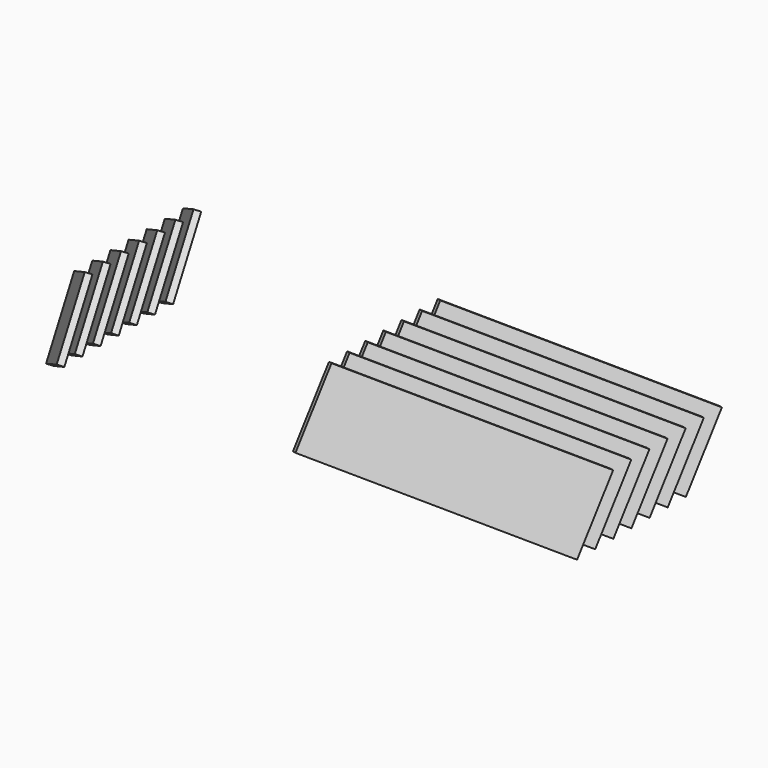
from build123d import *

# Parameters (mm, degrees)
BOX022_W               = 30
BOX022_H               = 2.5
BOX022_DEPTH           = 100
BOX022_ROLL_ANGLE      = 30.72405
BOX022_PITCH_ANGLE     = 57.751092
BOX022_PLACEMENT_ANGLE = -95.67779
BOX023_W               = 30
BOX023_H               = 2.5
BOX023_DEPTH           = 100
BOX023_ROLL_ANGLE      = 30.72405
BOX023_PITCH_ANGLE     = 57.751092
BOX023_PLACEMENT_ANGLE = -95.67779
BOX024_W               = 30
BOX024_H               = 2.5
BOX024_DEPTH           = 100
BOX024_ROLL_ANGLE      = 30.72405
BOX024_PITCH_ANGLE     = 57.751092
BOX024_PLACEMENT_ANGLE = -95.67779
BOX025_W               = 30
BOX025_H               = 2.5
BOX025_DEPTH           = 100
BOX025_ROLL_ANGLE      = 30.72405
BOX025_PITCH_ANGLE     = 57.751092
BOX025_PLACEMENT_ANGLE = -95.67779
BOX026_W               = 30
BOX026_H               = 2.5
BOX026_DEPTH           = 100
BOX026_ROLL_ANGLE      = 30.72405
BOX026_PITCH_ANGLE     = 57.751092
BOX026_PLACEMENT_ANGLE = -95.67779
BOX027_W               = 30
BOX027_H               = 2.5
BOX027_DEPTH           = 100
BOX027_ROLL_ANGLE      = 30.72405
BOX027_PITCH_ANGLE     = 57.751092
BOX027_PLACEMENT_ANGLE = -95.67779
BOX021_W               = 30
BOX021_H               = 2.5
BOX021_DEPTH           = 100
BOX021_ROLL_ANGLE      = 30.72405
BOX021_PITCH_ANGLE     = 57.751092
BOX021_PLACEMENT_ANGLE = -95.67779
BOX001_W               = 30
BOX001_H               = 2.5
BOX001_DEPTH           = 100
BOX001_ROLL_ANGLE      = 30.72405
BOX001_PITCH_ANGLE     = 57.751092
BOX001_PLACEMENT_ANGLE = -95.67779
BOX002_W               = 30
BOX002_H               = 2.5
BOX002_DEPTH           = 100
BOX002_ROLL_ANGLE      = 30.72405
BOX002_PITCH_ANGLE     = 57.751092
BOX002_PLACEMENT_ANGLE = -95.67779
BOX003_W               = 30
BOX003_H               = 2.5
BOX003_DEPTH           = 100
BOX003_ROLL_ANGLE      = 30.72405
BOX003_PITCH_ANGLE     = 57.751092
BOX003_PLACEMENT_ANGLE = -95.67779
BOX004_W               = 30
BOX004_H               = 2.5
BOX004_DEPTH           = 100
BOX004_ROLL_ANGLE      = 30.72405
BOX004_PITCH_ANGLE     = 57.751092
BOX004_PLACEMENT_ANGLE = -95.67779
BOX005_W               = 30
BOX005_H               = 2.5
BOX005_DEPTH           = 100
BOX005_ROLL_ANGLE      = 30.72405
BOX005_PITCH_ANGLE     = 57.751092
BOX005_PLACEMENT_ANGLE = -95.67779
BOX006_W               = 30
BOX006_H               = 2.5
BOX006_DEPTH           = 100
BOX006_ROLL_ANGLE      = 30.72405
BOX006_PITCH_ANGLE     = 57.751092
BOX006_PLACEMENT_ANGLE = -95.67779
BOX_W                  = 30
BOX_H                  = 2.5
BOX_DEPTH              = 100
BOX_ROLL_ANGLE         = 30.72405
BOX_PITCH_ANGLE        = 57.751092
BOX_PLACEMENT_ANGLE    = -95.67779


with BuildPart() as cube022:
    # Box022 → Box022 (new body)
    with BuildSketch(Plane.XY):
        with Locations((15, 1.25)):
            Rectangle(BOX022_W, BOX022_H)
    extrude(amount=BOX022_DEPTH)


with BuildPart() as cube022_1:
    # Box022 roll: moved
    add(cube022.part.rotate(Axis((0, 0, 0), (1, 0, 0)), BOX022_ROLL_ANGLE))


with BuildPart() as cube022_2:
    # Box022 pitch: moved
    add(cube022_1.part.rotate(Axis((0, 0, 0), (0, 1, 0)), BOX022_PITCH_ANGLE))


with BuildPart() as cube022_3:
    # Box022 placement: moved
    add(cube022_2.part.moved(Location((105, 186, 0))).rotate(Axis((105, 186, 0), (0, 0, 1)), BOX022_PLACEMENT_ANGLE))


with BuildPart() as cube023:
    # Box023 → Box023 (new body)
    with BuildSketch(Plane.XY):
        with Locations((15, 1.25)):
            Rectangle(BOX023_W, BOX023_H)
    extrude(amount=BOX023_DEPTH)


with BuildPart() as cube023_1:
    # Box023 roll: moved
    add(cube023.part.rotate(Axis((0, 0, 0), (1, 0, 0)), BOX023_ROLL_ANGLE))


with BuildPart() as cube023_2:
    # Box023 pitch: moved
    add(cube023_1.part.rotate(Axis((0, 0, 0), (0, 1, 0)), BOX023_PITCH_ANGLE))


with BuildPart() as cube023_3:
    # Box023 placement: moved
    add(cube023_2.part.moved(Location((105, 195, 0))).rotate(Axis((105, 195, 0), (0, 0, 1)), BOX023_PLACEMENT_ANGLE))


with BuildPart() as cube024:
    # Box024 → Box024 (new body)
    with BuildSketch(Plane.XY):
        with Locations((15, 1.25)):
            Rectangle(BOX024_W, BOX024_H)
    extrude(amount=BOX024_DEPTH)


with BuildPart() as cube024_1:
    # Box024 roll: moved
    add(cube024.part.rotate(Axis((0, 0, 0), (1, 0, 0)), BOX024_ROLL_ANGLE))


with BuildPart() as cube024_2:
    # Box024 pitch: moved
    add(cube024_1.part.rotate(Axis((0, 0, 0), (0, 1, 0)), BOX024_PITCH_ANGLE))


with BuildPart() as cube024_3:
    # Box024 placement: moved
    add(cube024_2.part.moved(Location((105, 204, 0))).rotate(Axis((105, 204, 0), (0, 0, 1)), BOX024_PLACEMENT_ANGLE))


with BuildPart() as cube025:
    # Box025 → Box025 (new body)
    with BuildSketch(Plane.XY):
        with Locations((15, 1.25)):
            Rectangle(BOX025_W, BOX025_H)
    extrude(amount=BOX025_DEPTH)


with BuildPart() as cube025_1:
    # Box025 roll: moved
    add(cube025.part.rotate(Axis((0, 0, 0), (1, 0, 0)), BOX025_ROLL_ANGLE))


with BuildPart() as cube025_2:
    # Box025 pitch: moved
    add(cube025_1.part.rotate(Axis((0, 0, 0), (0, 1, 0)), BOX025_PITCH_ANGLE))


with BuildPart() as cube025_3:
    # Box025 placement: moved
    add(cube025_2.part.moved(Location((105, 213, 0))).rotate(Axis((105, 213, 0), (0, 0, 1)), BOX025_PLACEMENT_ANGLE))


with BuildPart() as cube026:
    # Box026 → Box026 (new body)
    with BuildSketch(Plane.XY):
        with Locations((15, 1.25)):
            Rectangle(BOX026_W, BOX026_H)
    extrude(amount=BOX026_DEPTH)


with BuildPart() as cube026_1:
    # Box026 roll: moved
    add(cube026.part.rotate(Axis((0, 0, 0), (1, 0, 0)), BOX026_ROLL_ANGLE))


with BuildPart() as cube026_2:
    # Box026 pitch: moved
    add(cube026_1.part.rotate(Axis((0, 0, 0), (0, 1, 0)), BOX026_PITCH_ANGLE))


with BuildPart() as cube026_3:
    # Box026 placement: moved
    add(cube026_2.part.moved(Location((105, 222, 0))).rotate(Axis((105, 222, 0), (0, 0, 1)), BOX026_PLACEMENT_ANGLE))


with BuildPart() as cube027:
    # Box027 → Box027 (new body)
    with BuildSketch(Plane.XY):
        with Locations((15, 1.25)):
            Rectangle(BOX027_W, BOX027_H)
    extrude(amount=BOX027_DEPTH)


with BuildPart() as cube027_1:
    # Box027 roll: moved
    add(cube027.part.rotate(Axis((0, 0, 0), (1, 0, 0)), BOX027_ROLL_ANGLE))


with BuildPart() as cube027_2:
    # Box027 pitch: moved
    add(cube027_1.part.rotate(Axis((0, 0, 0), (0, 1, 0)), BOX027_PITCH_ANGLE))


with BuildPart() as cube027_3:
    # Box027 placement: moved
    add(cube027_2.part.moved(Location((105, 231, 0))).rotate(Axis((105, 231, 0), (0, 0, 1)), BOX027_PLACEMENT_ANGLE))


with BuildPart() as vent003:
    # Box021 → Box021 (new body)
    with BuildSketch(Plane.XY):
        with Locations((15, 1.25)):
            Rectangle(BOX021_W, BOX021_H)
    extrude(amount=BOX021_DEPTH)


with BuildPart() as vent003_1:
    # Box021 roll: moved
    add(vent003.part.rotate(Axis((0, 0, 0), (1, 0, 0)), BOX021_ROLL_ANGLE))


with BuildPart() as vent003_2:
    # Box021 pitch: moved
    add(vent003_1.part.rotate(Axis((0, 0, 0), (0, 1, 0)), BOX021_PITCH_ANGLE))


with BuildPart() as vent003_3:
    # Box021 placement: moved
    add(vent003_2.part.moved(Location((105, 177, 0))).rotate(Axis((105, 177, 0), (0, 0, 1)), BOX021_PLACEMENT_ANGLE))

    # Fusion004: union Cube022, Cube023, Cube024, Cube025, Cube026, Cube027
    add(cube022_3.part)
    add(cube023_3.part)
    add(cube024_3.part)
    add(cube025_3.part)
    add(cube026_3.part)
    add(cube027_3.part)


with BuildPart() as part_mirroring:
    # Part__Mirroring: instance of Vent003
    add(vent003_3.part.mirror(Plane(origin=(0, 0, 0), x_dir=(0, -1, 0), z_dir=(1, 0, 0))))


with BuildPart() as cube001:
    # Box001 → Box001 (new body)
    with BuildSketch(Plane.XY):
        with Locations((15, 1.25)):
            Rectangle(BOX001_W, BOX001_H)
    extrude(amount=BOX001_DEPTH)


with BuildPart() as cube001_1:
    # Box001 roll: moved
    add(cube001.part.rotate(Axis((0, 0, 0), (1, 0, 0)), BOX001_ROLL_ANGLE))


with BuildPart() as cube001_2:
    # Box001 pitch: moved
    add(cube001_1.part.rotate(Axis((0, 0, 0), (0, 1, 0)), BOX001_PITCH_ANGLE))


with BuildPart() as cube001_3:
    # Box001 placement: moved
    add(cube001_2.part.moved(Location((105, 186, 0))).rotate(Axis((105, 186, 0), (0, 0, 1)), BOX001_PLACEMENT_ANGLE))


with BuildPart() as cube002:
    # Box002 → Box002 (new body)
    with BuildSketch(Plane.XY):
        with Locations((15, 1.25)):
            Rectangle(BOX002_W, BOX002_H)
    extrude(amount=BOX002_DEPTH)


with BuildPart() as cube002_1:
    # Box002 roll: moved
    add(cube002.part.rotate(Axis((0, 0, 0), (1, 0, 0)), BOX002_ROLL_ANGLE))


with BuildPart() as cube002_2:
    # Box002 pitch: moved
    add(cube002_1.part.rotate(Axis((0, 0, 0), (0, 1, 0)), BOX002_PITCH_ANGLE))


with BuildPart() as cube002_3:
    # Box002 placement: moved
    add(cube002_2.part.moved(Location((105, 195, 0))).rotate(Axis((105, 195, 0), (0, 0, 1)), BOX002_PLACEMENT_ANGLE))


with BuildPart() as cube003:
    # Box003 → Box003 (new body)
    with BuildSketch(Plane.XY):
        with Locations((15, 1.25)):
            Rectangle(BOX003_W, BOX003_H)
    extrude(amount=BOX003_DEPTH)


with BuildPart() as cube003_1:
    # Box003 roll: moved
    add(cube003.part.rotate(Axis((0, 0, 0), (1, 0, 0)), BOX003_ROLL_ANGLE))


with BuildPart() as cube003_2:
    # Box003 pitch: moved
    add(cube003_1.part.rotate(Axis((0, 0, 0), (0, 1, 0)), BOX003_PITCH_ANGLE))


with BuildPart() as cube003_3:
    # Box003 placement: moved
    add(cube003_2.part.moved(Location((105, 204, 0))).rotate(Axis((105, 204, 0), (0, 0, 1)), BOX003_PLACEMENT_ANGLE))


with BuildPart() as cube004:
    # Box004 → Box004 (new body)
    with BuildSketch(Plane.XY):
        with Locations((15, 1.25)):
            Rectangle(BOX004_W, BOX004_H)
    extrude(amount=BOX004_DEPTH)


with BuildPart() as cube004_1:
    # Box004 roll: moved
    add(cube004.part.rotate(Axis((0, 0, 0), (1, 0, 0)), BOX004_ROLL_ANGLE))


with BuildPart() as cube004_2:
    # Box004 pitch: moved
    add(cube004_1.part.rotate(Axis((0, 0, 0), (0, 1, 0)), BOX004_PITCH_ANGLE))


with BuildPart() as cube004_3:
    # Box004 placement: moved
    add(cube004_2.part.moved(Location((105, 213, 0))).rotate(Axis((105, 213, 0), (0, 0, 1)), BOX004_PLACEMENT_ANGLE))


with BuildPart() as cube005:
    # Box005 → Box005 (new body)
    with BuildSketch(Plane.XY):
        with Locations((15, 1.25)):
            Rectangle(BOX005_W, BOX005_H)
    extrude(amount=BOX005_DEPTH)


with BuildPart() as cube005_1:
    # Box005 roll: moved
    add(cube005.part.rotate(Axis((0, 0, 0), (1, 0, 0)), BOX005_ROLL_ANGLE))


with BuildPart() as cube005_2:
    # Box005 pitch: moved
    add(cube005_1.part.rotate(Axis((0, 0, 0), (0, 1, 0)), BOX005_PITCH_ANGLE))


with BuildPart() as cube005_3:
    # Box005 placement: moved
    add(cube005_2.part.moved(Location((105, 222, 0))).rotate(Axis((105, 222, 0), (0, 0, 1)), BOX005_PLACEMENT_ANGLE))


with BuildPart() as cube006:
    # Box006 → Box006 (new body)
    with BuildSketch(Plane.XY):
        with Locations((15, 1.25)):
            Rectangle(BOX006_W, BOX006_H)
    extrude(amount=BOX006_DEPTH)


with BuildPart() as cube006_1:
    # Box006 roll: moved
    add(cube006.part.rotate(Axis((0, 0, 0), (1, 0, 0)), BOX006_ROLL_ANGLE))


with BuildPart() as cube006_2:
    # Box006 pitch: moved
    add(cube006_1.part.rotate(Axis((0, 0, 0), (0, 1, 0)), BOX006_PITCH_ANGLE))


with BuildPart() as cube006_3:
    # Box006 placement: moved
    add(cube006_2.part.moved(Location((105, 231, 0))).rotate(Axis((105, 231, 0), (0, 0, 1)), BOX006_PLACEMENT_ANGLE))


with BuildPart() as vent01_both:
    # Box → Box (new body)
    with BuildSketch(Plane.XY):
        with Locations((15, 1.25)):
            Rectangle(BOX_W, BOX_H)
    extrude(amount=BOX_DEPTH)


with BuildPart() as vent01_both_1:
    # Box roll: moved
    add(vent01_both.part.rotate(Axis((0, 0, 0), (1, 0, 0)), BOX_ROLL_ANGLE))


with BuildPart() as vent01_both_2:
    # Box pitch: moved
    add(vent01_both_1.part.rotate(Axis((0, 0, 0), (0, 1, 0)), BOX_PITCH_ANGLE))


with BuildPart() as vent01_both_3:
    # Box placement: moved
    add(vent01_both_2.part.moved(Location((105, 177, 0))).rotate(Axis((105, 177, 0), (0, 0, 1)), BOX_PLACEMENT_ANGLE))

    # Fusion001: union Cube001, Cube002, Cube003, Cube004, Cube005, Cube006
    add(cube001_3.part)
    add(cube002_3.part)
    add(cube003_3.part)
    add(cube004_3.part)
    add(cube005_3.part)
    add(cube006_3.part)

    # Fusion005: union Part__Mirroring
    add(part_mirroring.part)


solid = vent01_both_3.part
